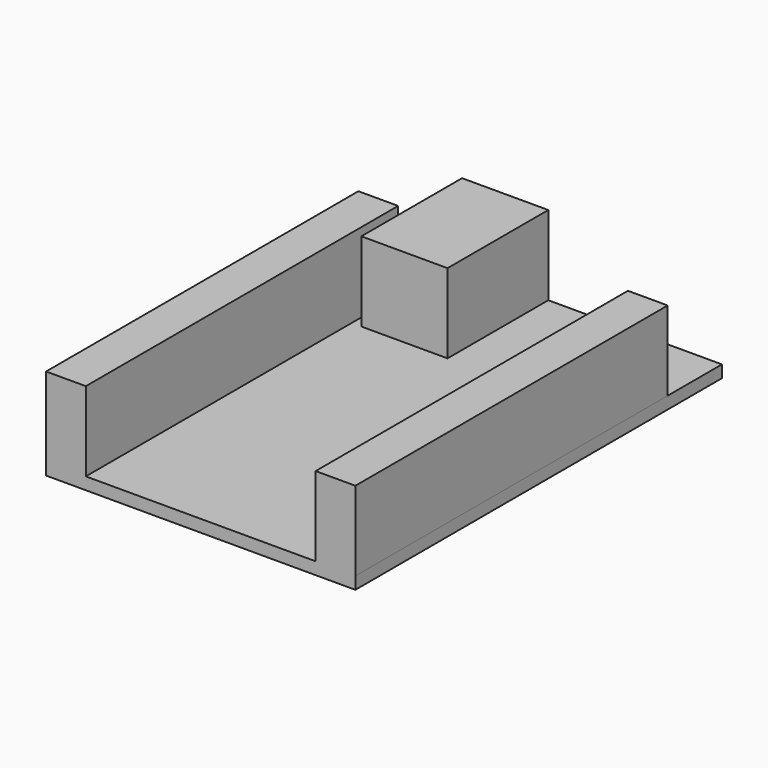
from build123d import *

# Parameters (mm, degrees)
F0_W     = 40.5
F0_H     = 60
F1_DEPTH = 1.6
F2_W     = 5.203603
F2_H     = 51.121294
F2_W_2   = 11.289145
F2_H_2   = 16.489763
F3_DEPTH = 12


with BuildPart() as f1:
    # F0 (on Top) → F1 (new body)
    with BuildSketch(Plane.XY):
        with Locations((20.25, 30)):
            Rectangle(F0_W, F0_H)
    extrude(amount=F1_DEPTH)

    # F2 (on Top) → F3 (join)
    with BuildSketch(Plane.XY):
        with Locations((2.601802, 25.560647)):
            Rectangle(F2_W, F2_H)
        with Locations((37.898198, 25.560647)):
            Rectangle(F2_W, F2_H)
        with Locations((12.116618, 51.755118)):
            Rectangle(F2_W_2, F2_H_2)
    extrude(amount=F3_DEPTH)


solid = f1.part
